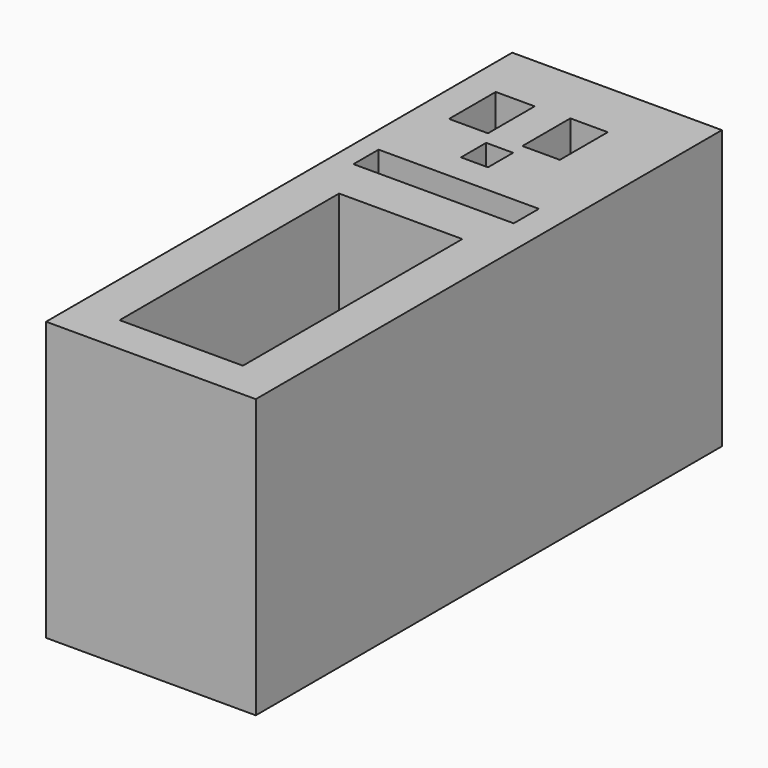
from build123d import *

# Parameters (mm, degrees)
F0_W     = 22.498419
F0_H     = 50.058983
F0_W_2   = 29.24906
F0_H_2   = 5.740468
F0_W_3   = 7.107251
F0_H_3   = 10.660874
F1_DEPTH = 50.8


with BuildPart() as f1:
    # F0 (on Top) → F1 (new body)
    with BuildSketch(Plane.XY):
        Polygon((-21.644898, 52.593466), (-59.914693, 52.593466), (-59.914693, 39.472394), (-59.914693, 34.825347), (-59.914693, 6.66971), (-59.914693, -53.741902), (-56.087717, -53.741902), (-26.5653, -53.741902), (-21.644898, -53.741902), (-21.644898, 6.66971), (-21.644898, 34.825347), (-21.644898, 39.472394), align=None)
        with Locations((-40.778385, -21.795344)):
            Rectangle(F0_W, F0_H, mode=Mode.SUBTRACT)
        with Locations((-41.463187, 14.460347)):
            Rectangle(F0_W_2, F0_H_2, mode=Mode.SUBTRACT)
        Polygon((-45.426842, 22.797696), (-45.426842, 28.538166), (-40.600547, 28.538166), (-40.506441, 28.538166), (-40.506441, 22.797696), align=None, mode=Mode.SUBTRACT)
        with Locations((-50.6206, 36.328803)):
            Rectangle(F0_W_3, F0_H_3, mode=Mode.SUBTRACT)
        Polygon((-40.779795, 39.472394), (-40.779795, 41.932594), (-33.945903, 41.932594), (-33.945903, 30.998366), (-40.640878, 30.998366), (-40.779795, 30.998366), align=None, mode=Mode.SUBTRACT)
    extrude(amount=F1_DEPTH)


solid = f1.part
